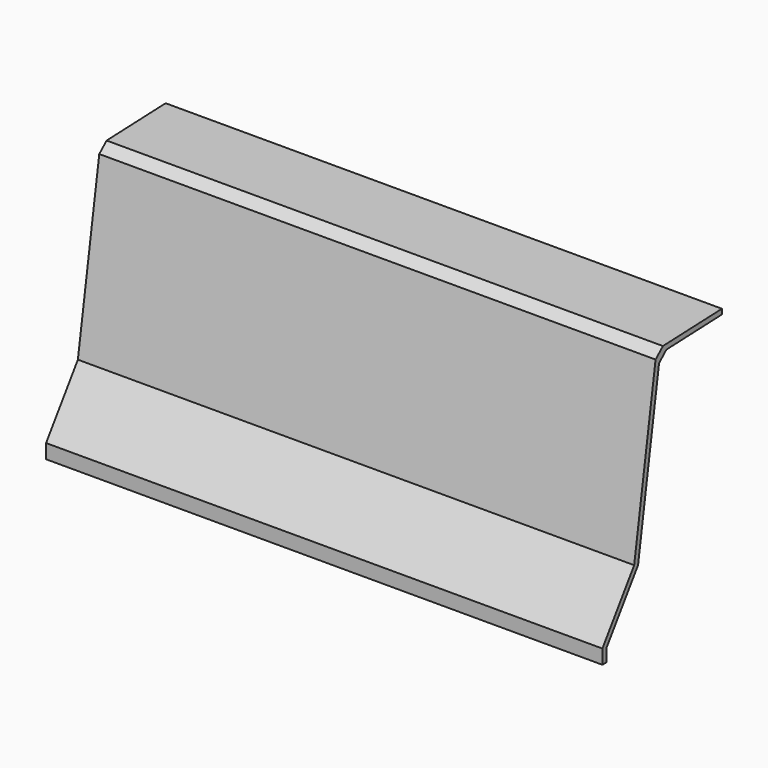
from build123d import *

# Parameters (mm, degrees)
F1_DEPTH = 875
F2_SIZE  = 25


with BuildPart() as f1:
    # F0 (on Right) → F1 (new body, symmetric)
    with BuildSketch(Plane.YZ):
        Polygon((-53.433351, -179.787277), (-53.433351, -224.787277), (-37.433351, -224.787277), (-37.433351, -184.797974), (86.802738, -5.898006), (173.330969, 544.736192), (416.566649, 554.200616), (416.566649, 570.212723), (159.566649, 560.212723), (71.566649, 0.212723), align=None)
    extrude(amount=F1_DEPTH, both=True)

    # F2
    f2_edges = [f1.edges().sort_by_distance(p)[0] for p in [
        (0, 159.566649, 560.212723),
        (0, 173.330969, 544.736192),
    ]]
    chamfer(f2_edges, length=F2_SIZE)


solid = f1.part
